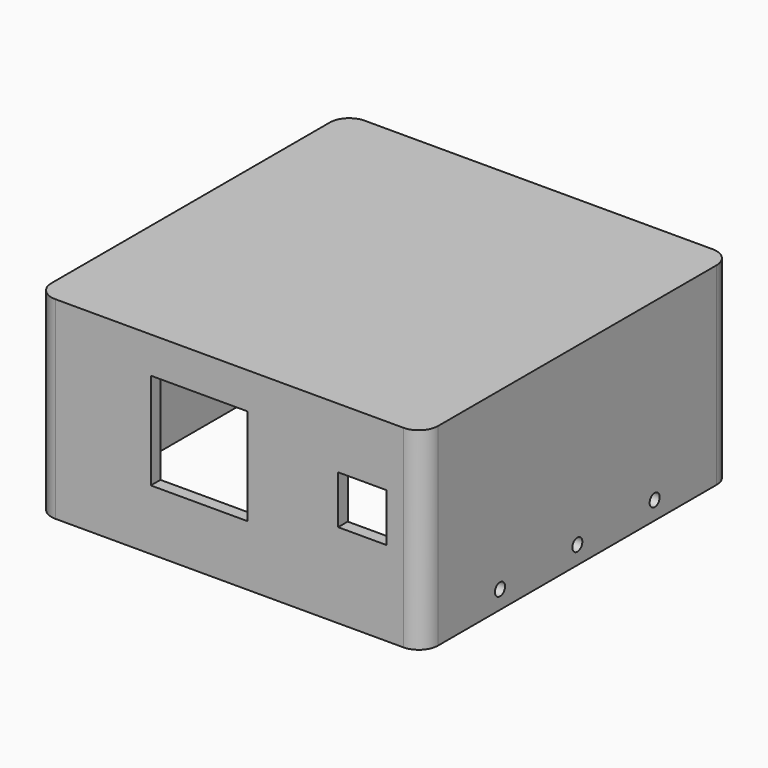
from build123d import *

# Parameters (mm, degrees)
F0_W     = 101.6
F0_H     = 101.6
F0_W_2   = 95.25
F0_H_2   = 95.25
F1_DEPTH = 50.8
F2_DEPTH = 47.625
F3_R     = 5.08
F4_W     = 25.4
F4_H     = 25.4
F4_W_2   = 12.7
F4_H_2   = 12.7
F5_DEPTH = 5.08
F6_W     = 23.495
F6_H     = 38.1
F7_DEPTH = 25.4
F9_D     = 3.3
F9_DEPTH = 6.35
F9_TIP   = 0.9914200214


with BuildPart() as f1:
    # F0 (on Top) → F1 (new body)
    with BuildSketch(Plane.XY):
        Rectangle(F0_W, F0_H)
        Rectangle(F0_W_2, F0_H_2, mode=Mode.SUBTRACT)
        Rectangle(F0_W_2, F0_H_2)
    extrude(amount=F1_DEPTH)

    # F0 (on Top) → F2 (cut)
    with BuildSketch(Plane.XY):
        Rectangle(F0_W_2, F0_H_2)
    extrude(amount=F2_DEPTH, mode=Mode.SUBTRACT)

    # F3
    f3_edges = [f1.edges().sort_by_distance(p)[0] for p in [
        (50.8, -50.8, 25.4),
        (50.8, 50.8, 25.4),
        (-50.8, 50.8, 25.4),
        (-47.625, -47.625, 23.8125),
        (47.625, -47.625, 23.8125),
        (47.625, 47.625, 23.8125),
        (-47.625, 47.625, 23.8125),
        (-50.8, -50.8, 25.4),
    ]]
    fillet(f3_edges, radius=F3_R)

    # F4 (on face) → F5 (cut)
    with BuildSketch(Plane.XZ.offset(50.8)):
        with Locations((-7.9375, 28.575)):
            Rectangle(F4_W, F4_H)
        with Locations((34.925, 28.575)):
            Rectangle(F4_W_2, F4_H_2)
    extrude(amount=-F5_DEPTH, mode=Mode.SUBTRACT)

    # F6 (on face) → F7 (cut)
    with BuildSketch(Plane(origin=(0, 50.8, 0), x_dir=(-1, 0, 0), z_dir=(0, 1, 0))):
        with Locations((33.9725, 19.05)):
            Rectangle(F6_W, F6_H)
    extrude(amount=-F7_DEPTH, mode=Mode.SUBTRACT)

    # F9
    with Locations(Plane.YZ.offset(50.8)):
        with Locations((-25.4, 4.7625), (0, 4.7625), (25.4, 4.7625)):
            Hole(F9_D / 2, depth=F9_DEPTH)
            with Locations((0, 0, -(F9_DEPTH + F9_TIP / 2))):  # 118° drill point
                Cone(0, F9_D / 2, F9_TIP, mode=Mode.SUBTRACT)


solid = f1.part
